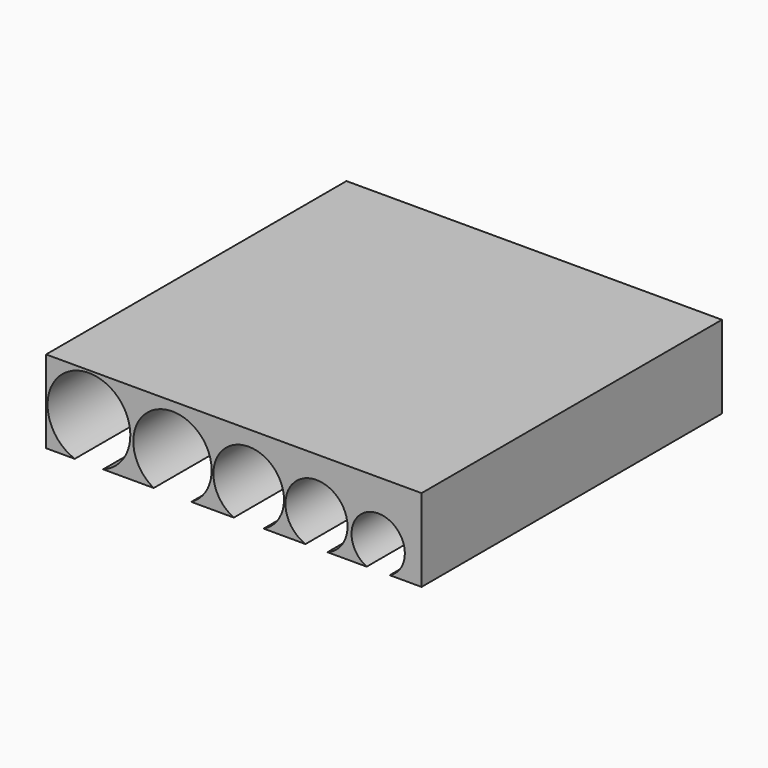
from build123d import *

# Parameters (mm, degrees)
F0_W      = 254
F0_H      = 55.88
F1_DEPTH  = 254
F7_DEPTH  = 251.46
F8_DEPTH  = 251.46
F9_DEPTH  = 251.46
F10_DEPTH = 251.46
F11_DEPTH = 251.46
F12_W     = 18.410387516
F12_H     = 1.8
F12_W_2   = 28.7952162325
F12_W_3   = 28.3505693078
F12_W_4   = 10.2531584787
F13_DEPTH = 28.702
F14_W     = 13.4992599487
F14_H     = 27.94
F14_W_2   = 14.8270688951
F14_W_3   = 18.7435504049
F14_W_4   = 21.5115528554
F14_W_5   = 16.9484987855
F15_DEPTH = 76.2


with BuildPart() as f1:
    # F0 (on Front) → F1 (new body)
    with BuildSketch(Plane.XZ):
        Rectangle(F0_W, F0_H)
    extrude(amount=F1_DEPTH)

    # F6 (on face) → F7 (cut)
    with BuildSketch(Plane.XZ.offset(254)):
        with BuildLine():
            ThreePointArc((105.444855988, -27.94), (97.6680144668, 6.3565803399), (89.8911729455, -27.94))
            Line((89.8911729455, -27.94), (105.444855988, -27.94))
        make_face()
    extrude(amount=-F7_DEPTH, mode=Mode.SUBTRACT)

    # F5 (on face) → F8 (cut)
    with BuildSketch(Plane.XZ.offset(254)):
        with BuildLine():
            ThreePointArc((63.3584037423, -27.94), (55.9246577322, 12.700250005), (48.4909117222, -27.94))
            Line((48.4909117222, -27.94), (63.3584037423, -27.94))
        make_face()
    extrude(amount=-F8_DEPTH, mode=Mode.SUBTRACT)

    # F4 (on face) → F9 (cut)
    with BuildSketch(Plane.XZ.offset(254)):
        with BuildLine():
            ThreePointArc((20.1403424144, -27.94), (10.0701712072, 17.5928532036), (0, -27.94))
            Line((0, -27.94), (20.1403424144, -27.94))
        make_face()
    extrude(amount=-F9_DEPTH, mode=Mode.SUBTRACT)

    # F3 (on face) → F10 (cut)
    with BuildSketch(Plane.XZ.offset(254)):
        with BuildLine():
            ThreePointArc((-28.7952162325, -27.94), (-41.4804015309, 21.8266300514), (-54.1655868292, -27.94))
            Line((-54.1655868292, -27.94), (-28.7952162325, -27.94))
        make_face()
    extrude(amount=-F10_DEPTH, mode=Mode.SUBTRACT)

    # F2 (on face) → F11 (cut)
    with BuildSketch(Plane.XZ.offset(254)):
        with BuildLine():
            Line((-107.5928583741, -27.94), (-88.4136334062, -27.94))
            ThreePointArc((-88.4136334062, -27.94), (-98.0032458901, 26.3666404622), (-107.5928583741, -27.94))
        make_face()
    extrude(amount=-F11_DEPTH, mode=Mode.SUBTRACT)

    # F12 (on face) → F13 (cut)
    with BuildSketch(Plane(origin=(0, 0, -27.94), x_dir=(1, 0, 0), z_dir=(0, 0, -1))):
        with Locations((-116.7980521321, 3.44)):
            Rectangle(F12_W, F12_H)
        Polygon((-70.0032458901, 4.34), (-88.4136334062, 4.34), (-88.4136334062, 2.54), (-70.0032458901, 2.54), (-54.1655868292, 2.54), (-54.1655868292, 4.34), align=None)
        with Locations((-14.3976081163, 3.44)):
            Rectangle(F12_W_2, F12_H)
        with Locations((34.3156270683, 3.44)):
            Rectangle(F12_W_3, F12_H)
        Polygon((89.8911729455, 2.54), (89.8911729455, 4.34), (63.3584037423, 4.34), (63.3584037423, 2.54), (79.6380144668, 2.54), align=None)
        with Locations((110.5714352274, 3.44)):
            Rectangle(F12_W_4, F12_H)
    extrude(amount=-F13_DEPTH, mode=Mode.SUBTRACT)

    # F14 (on face) → F15 (cut)
    with BuildSketch(Plane(origin=(0, 0, 0), x_dir=(-1, 0, 0), z_dir=(0, 1, 0))):
        with Locations((-97.854167223, -13.97)):
            Rectangle(F14_W, F14_H)
        with Locations((-56.2498588115, -13.97)):
            Rectangle(F14_W_2, F14_H)
        with Locations((-9.3717752025, -13.97)):
            Rectangle(F14_W_3, F14_H)
        with Locations((40.9021200612, -13.97)):
            Rectangle(F14_W_4, F14_H)
        with Locations((99.0267731249, -13.97)):
            Rectangle(F14_W_5, F14_H)
    extrude(amount=-F15_DEPTH, mode=Mode.SUBTRACT)


solid = f1.part
